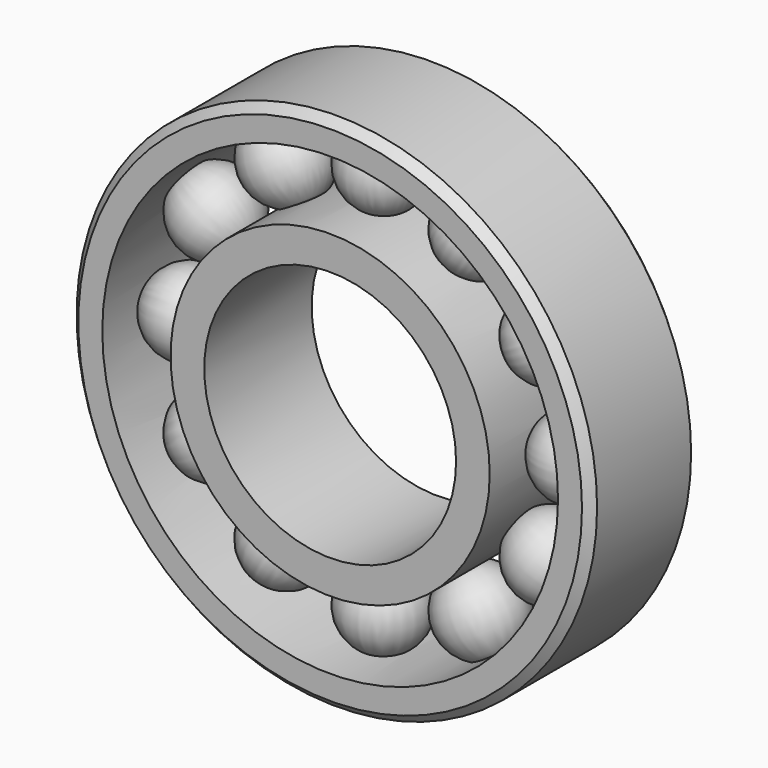
from build123d import *

# Parameters (mm, degrees)
F0_R     = 31
F0_R_2   = 15
F1_DEPTH = 8
F2_R     = 27.143017
F2_R_2   = 19.009658
F3_DEPTH = 25
F6_COUNT = 12
F7_SIZE  = 1


with BuildPart() as f1:
    # F0 (on Front) → F1 (new body, symmetric)
    with BuildSketch(Plane.XZ):
        Circle(F0_R)
        Circle(F0_R_2, mode=Mode.SUBTRACT)
    extrude(amount=F1_DEPTH, both=True)

    # F2 (on face) → F3 (cut)
    with BuildSketch(Plane.XZ.offset(8)):
        Circle(F2_R)
        Circle(F2_R_2, mode=Mode.SUBTRACT)
    extrude(amount=-F3_DEPTH, mode=Mode.SUBTRACT)

    # F4 (on Front) → F5 (revolve)
    with BuildSketch(Plane.XZ):
        with BuildLine():
            Line((0, 18.211137), (0, 28.002866))
            ThreePointArc((0, 28.002866), (-4.895865, 23.107002), (0, 18.211137))
        make_face()
    revolve(axis=Axis((0, 0, 23.107002), (0, 0, -1)))

    # F6: F1 ×12 about axis
    f6_axis = Axis((0, 0, 0), (0, 1, 0))


with BuildPart() as f1_1:
    add(f1.part)
    for i in range(1, F6_COUNT):
        add(f1.part.rotate(f6_axis, i * 360 / F6_COUNT))

    # F7
    f7_edges = [f1_1.edges().sort_by_distance(p)[0] for p in [
        (-31, -8, 0),
        (-31, 8, 0),
    ]]
    chamfer(f7_edges, length=F7_SIZE)


solid = f1_1.part
